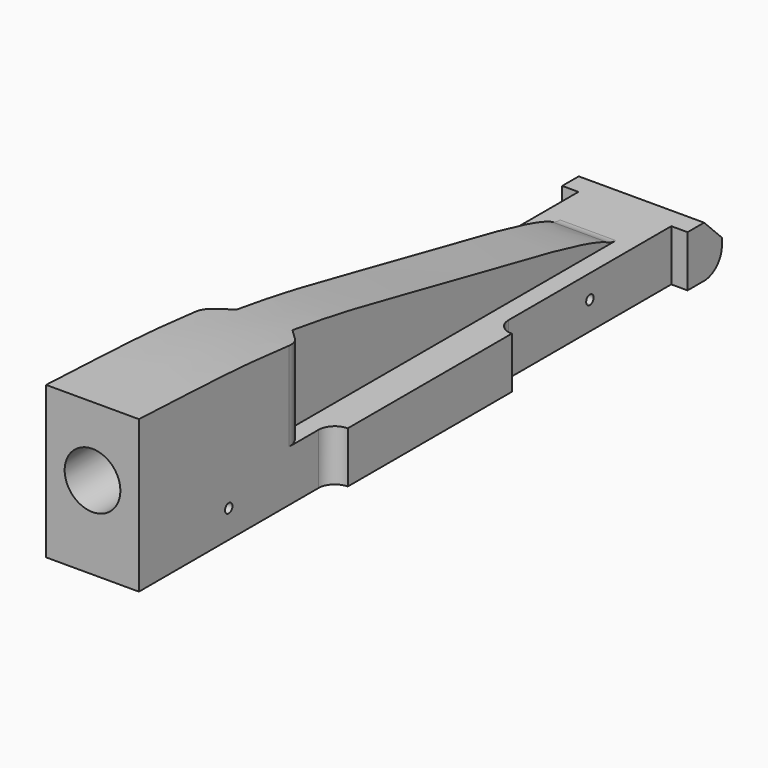
from build123d import *

# Parameters (mm, degrees)
F1_DEPTH  = 21.43125
F2_R      = 9.525
F3_DEPTH  = 50.8
F5_W      = 42.8625
F5_H      = 62.5831912994
F7_DEPTH  = 117.856
F8_W      = 5.55625
F8_H      = 69.85
F9_DEPTH  = 25.4
F10_DEPTH = 78.232
F12_DEPTH = 65.786
F14_DEPTH = 70.104
F16_DEPTH = 6.604
F17_SIZE  = 7.62
F18_R     = 7.62
F19_SIZE  = 6.35
F20_R     = 7.62
F21_R     = 1.5875
F22_DEPTH = 32.258
F23_R     = 1.5875
F24_DEPTH = 36.068


with BuildPart() as f1:
    # F0 (on Right) → F1 (new body, symmetric)
    with BuildSketch(Plane.YZ):
        Polygon((-152.4, 69.85), (-152.4, 0), (152.4, 0), (152.4, 19.05), align=None)
    extrude(amount=F1_DEPTH, both=True)

    # F2 (on face) → F3 (cut)
    with BuildSketch(Plane.XZ.offset(152.4)):
        with Locations((0, 34.925)):
            Circle(F2_R)
    extrude(amount=-F3_DEPTH, mode=Mode.SUBTRACT)

    # F5 (on face) → F7 (cut)
    with BuildSketch(Plane(origin=(0, 0, 0), x_dir=(1, 0, 0), z_dir=(0, 0, -1))):
        with BuildLine():
            Line((-15.875, 75.6509676576), (-15.875, 95.25))
            Line((-15.875, 95.25), (-15.875, 152.4))
            Line((-15.875, 152.4), (-21.43125, 152.1471400823))
            Line((-21.43125, 152.1471400823), (-21.43125, 70.0947176576))
            ThreePointArc((-21.43125, 70.0947176576), (-17.502387947, 71.7221056046), (-15.875, 75.6509676576))
        make_face()
        with BuildLine():
            Line((15.86865, -75.1233920455), (21.43125, -75.1233920455))
            Line((21.43125, -75.1233920455), (21.43125, -5.5626))
            Line((21.43125, -5.5626), (21.43125, 0))
            ThreePointArc((21.43125, 0), (17.497897819, -1.629247819), (15.86865, -5.5626))
            Line((15.86865, -5.5626), (15.86865, -43.3772839606))
            Line((15.86865, -43.3772839606), (15.86865, -75.1233920455))
        make_face()
        with Locations((0, -121.1084043503)):
            Rectangle(F5_W, F5_H)
        with BuildLine():
            ThreePointArc((-15.86865, -5.5626), (-17.497897819, -1.629247819), (-21.43125, 0))
            Line((-21.43125, 0), (-21.43125, -75.1233920455))
            Line((-21.43125, -75.1233920455), (-15.86865, -75.1233920455))
            Line((-15.86865, -75.1233920455), (-15.86865, -43.3772839606))
            Line((-15.86865, -43.3772839606), (-15.86865, -5.5626))
        make_face()
        with BuildLine():
            Line((21.43125, 152.4), (15.875, 152.4))
            Line((15.875, 152.4), (15.875, 95.25))
            Line((15.875, 95.25), (15.875, 75.6509676576))
            ThreePointArc((15.875, 75.6509676576), (17.502387947, 71.7221056046), (21.43125, 70.0947176576))
            Line((21.43125, 70.0947176576), (21.43125, 152.4))
        make_face()
    extrude(amount=-F7_DEPTH, mode=Mode.SUBTRACT)

    # F8 (on face) → F9 (cut)
    with BuildSketch(Plane.XZ.offset(152.4)):
        with Locations((-18.653125, 34.925)):
            Rectangle(F8_W, F8_H)
    extrude(amount=-F9_DEPTH, mode=Mode.SUBTRACT)

    # F4 (on face) → F10 (cut)
    with BuildSketch(Plane.YZ.offset(21.43125)):
        with BuildLine():
            Line((-166.5327996016, 95.561735332), (-152.4, 58.5300065577))
            add(Edge.make_bspline(
                [(-152.4, 58.5300065577), (-131.9690523131, 57.5975989918), (-92.9028985073, 56.6319201488), (-39.12835213, 46.6520301008), (-5.7136492039, 39.0230650087), (52.8600042471, 28.1535812859), (57.15, 24.1312850267)],
                knots=[0, 0, 0, 0, 0.2679549114, 0.514366781, 0.7364046279, 1, 1, 1, 1], degree=3))
            Line((57.15, 24.1312850267), (166.3713157177, 24.1312850267))
            Line((166.3713157177, 24.1312850267), (-166.5327996016, 95.561735332))
        make_face()
    extrude(amount=-F10_DEPTH, mode=Mode.SUBTRACT)

    # F11 (on face) → F12 (cut)
    with BuildSketch(Plane.XY.offset(24.1312850267)):
        Polygon((26.5305805951, 75.1233920455), (15.86865, 75.1233920455), (9.51865, 75.1233920455), (9.51865, -78.8636729121), (26.5305805951, -78.8636729121), align=None)
    extrude(amount=F12_DEPTH, mode=Mode.SUBTRACT)

    # F13 (on face) → F14 (cut)
    with BuildSketch(Plane.XY.offset(24.1312850267)):
        Polygon((-9.51865, 57.15), (-15.86865, 57.15), (-28.360279277, 57.15), (-37.0513312519, -78.8636729121), (-9.51865, -78.8636729121), align=None)
    extrude(amount=F14_DEPTH, mode=Mode.SUBTRACT)

    # F6 (on face) → F16 (cut)
    with BuildSketch(Plane(origin=(0, 0, 0), x_dir=(1, 0, 0), z_dir=(0, 0, -1))):
        with BuildLine():
            Line((15.875, 75.6509676576), (15.875, 95.25))
            Line((15.875, 95.25), (15.875, 152.4))
            Line((15.875, 152.4), (-15.875, 152.4))
            Line((-15.875, 152.4), (-15.875, 95.25))
            Line((-15.875, 95.25), (-15.875, 75.6509676576))
            ThreePointArc((-15.875, 75.6509676576), (-17.502387947, 71.7221056046), (-21.43125, 70.0947176576))
            Line((-21.43125, 70.0947176576), (-21.43125, 0))
            ThreePointArc((-21.43125, 0), (-17.497897819, -1.629247819), (-15.86865, -5.5626))
            Line((-15.86865, -5.5626), (-15.86865, -43.3772839606))
            Line((-15.86865, -43.3772839606), (-15.86865, -75.1233920455))
            Line((-15.86865, -75.1233920455), (-21.43125, -75.1233920455))
            Line((-21.43125, -75.1233920455), (-21.43125, -89.8168087006))
            Line((-21.43125, -89.8168087006), (21.43125, -89.8168087006))
            Line((21.43125, -89.8168087006), (21.43125, -75.1233920455))
            Line((21.43125, -75.1233920455), (15.86865, -75.1233920455))
            Line((15.86865, -75.1233920455), (15.86865, -43.3772839606))
            Line((15.86865, -43.3772839606), (15.86865, -5.5626))
            ThreePointArc((15.86865, -5.5626), (17.497897819, -1.629247819), (21.43125, 0))
            Line((21.43125, 0), (21.43125, 70.0947176576))
            ThreePointArc((21.43125, 70.0947176576), (17.502387947, 71.7221056046), (15.875, 75.6509676576))
        make_face()
    extrude(amount=-F16_DEPTH, mode=Mode.SUBTRACT)

    # F17
    f17_edges = [f1.edges().sort_by_distance(p)[0] for p in [
        (0, 89.816809, 24.131285),
    ]]
    chamfer(f17_edges, length=F17_SIZE)

    # F18
    f18_edges = [f1.edges().sort_by_distance(p)[0] for p in [
        (0, 89.816809, 6.604),
        (0, 57.15, 24.131285),
    ]]
    fillet(f18_edges, radius=F18_R)

    # F19
    f19_edges = [f1.edges().sort_by_distance(p)[0] for p in [
        (-15.875, -78.863673, 38.753924),
        (15.875, -78.863673, 38.753924),
    ]]
    chamfer(f19_edges, length=F19_SIZE)

    # F20
    f20_edges = [f1.edges().sort_by_distance(p)[0] for p in [
        (-15.875, -85.213673, 39.172756),
        (15.875, -85.213673, 39.172756),
    ]]
    fillet(f20_edges, radius=F20_R)

    # F21 (on face) → F22 (cut)
    with BuildSketch(Plane.YZ.offset(15.875)):
        with Locations((-114.0254838288, 16.129)):
            Circle(F21_R)
    extrude(amount=-F22_DEPTH, mode=Mode.SUBTRACT)

    # F23 (on face) → F24 (cut)
    with BuildSketch(Plane.YZ.offset(15.86865)):
        with Locations((40.3429960227, 16.129)):
            Circle(F23_R)
    extrude(amount=-F24_DEPTH, mode=Mode.SUBTRACT)


solid = f1.part
